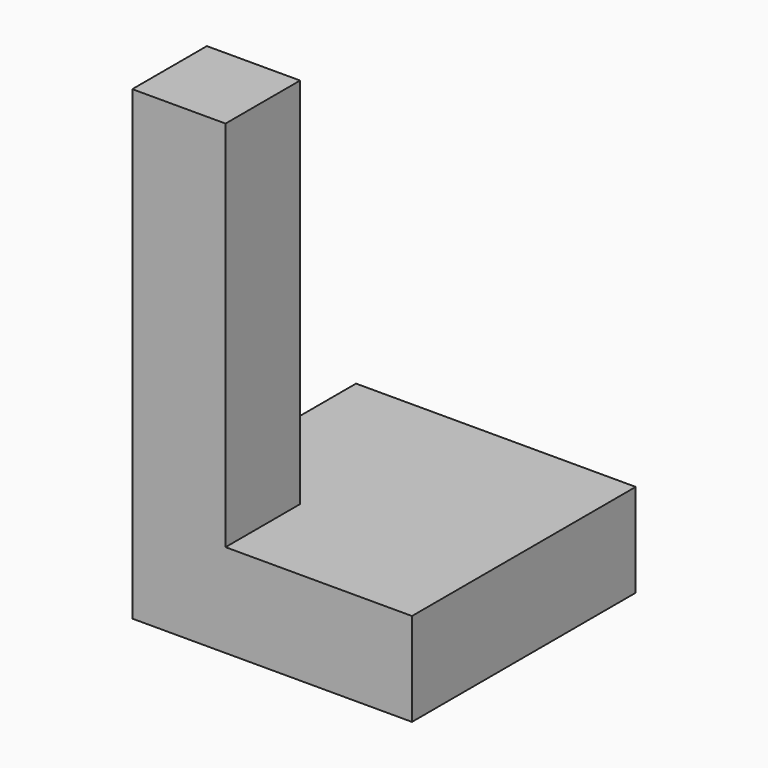
from build123d import *

# Parameters (mm, degrees)
BOX_W        = 10
BOX_H        = 10
BOX_DEPTH    = 50
BOX001_W     = 30
BOX001_H     = 30
BOX001_DEPTH = 10


with BuildPart() as torre:
    # Box → Box (new body)
    with BuildSketch(Plane.XY):
        with Locations((5, 5)):
            Rectangle(BOX_W, BOX_H)
    extrude(amount=BOX_DEPTH)


with BuildPart() as base:
    # Box001 → Box001 (new body)
    with BuildSketch(Plane.XY):
        with Locations((15, 15)):
            Rectangle(BOX001_W, BOX001_H)
    extrude(amount=BOX001_DEPTH)


with BuildPart() as cut:
    # Cut base: copy of Base
    add(base.part)

    # Cut: cut Torre
    add(torre.part, mode=Mode.SUBTRACT)


with BuildPart() as cut001:
    # Cut001 base: copy of Base
    add(base.part)

    # Cut001: cut Torre
    add(torre.part, mode=Mode.SUBTRACT)


with BuildPart() as fusion:
    # Fusion base: copy of Base
    add(base.part)

    # Fusion: union Torre
    add(torre.part)


solid = Compound([cut.part, cut001.part, fusion.part])
